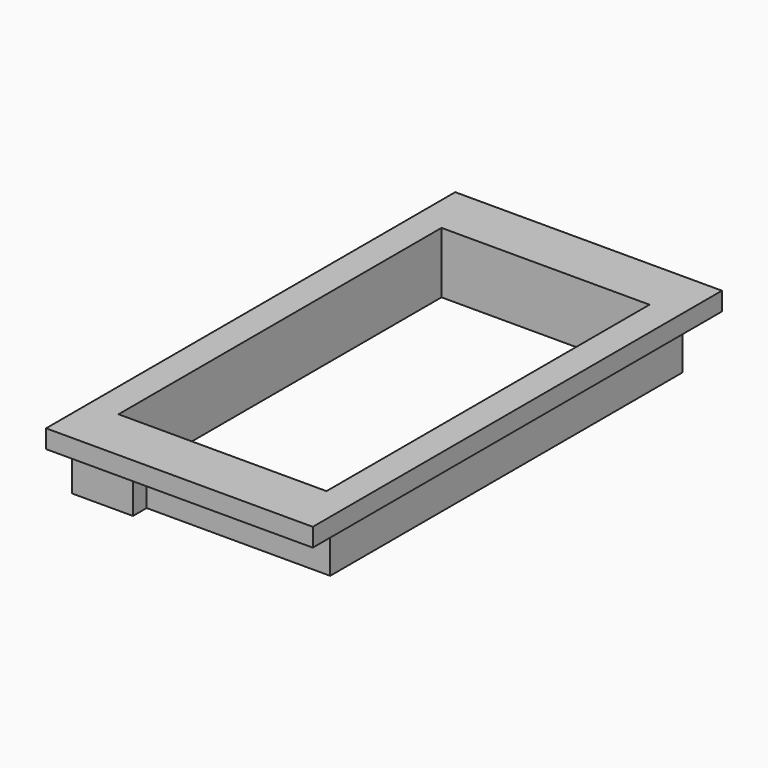
from build123d import *

# Parameters (mm, degrees)
BOX003_W                  = 5
BOX003_H                  = 2
BOX003_DEPTH              = 5
BOX005_W                  = 5
BOX005_H                  = 2
BOX005_DEPTH              = 5
BOX002_W                  = 17
BOX002_H                  = 33
BOX002_DEPTH              = 5
BOX001_W                  = 20
BOX001_H                  = 36
BOX001_DEPTH              = 5
BOX_W                     = 21.8
BOX_H                     = 41.8
BOX_DEPTH                 = 1.5
FUSION004_PLACEMENT_ANGLE = 180


with BuildPart() as cube001:
    # Box003 → Box003 (new body)
    with BuildSketch(Plane(origin=(-10, 17.4, 0), x_dir=(1, 0, 0), z_dir=(0, 0, 1))):
        with Locations((2.5, 1)):
            Rectangle(BOX003_W, BOX003_H)
    extrude(amount=BOX003_DEPTH)


with BuildPart() as fusion003:
    # Box005 → Box005 (new body)
    with BuildSketch(Plane(origin=(-10, -19.4, 0), x_dir=(1, 0, 0), z_dir=(0, 0, 1))):
        with Locations((2.5, 1)):
            Rectangle(BOX005_W, BOX005_H)
    extrude(amount=BOX005_DEPTH)

    # Fusion003: union Cube001
    add(cube001.part)


with BuildPart() as fusion003_1:
    # Fusion003 placement: moved
    add(fusion003.part.moved(Location((15, 0, 0))))


with BuildPart() as cut:
    # Box002 → Box002 (new body)
    with BuildSketch(Plane(origin=(-8.5, -16.5, 0), x_dir=(1, 0, 0), z_dir=(0, 0, 1))):
        with Locations((8.5, 16.5)):
            Rectangle(BOX002_W, BOX002_H)
    extrude(amount=BOX002_DEPTH)


with BuildPart() as cube:
    # Box001 → Box001 (new body)
    with BuildSketch(Plane(origin=(-10, -18, 0), x_dir=(1, 0, 0), z_dir=(0, 0, 1))):
        with Locations((10, 18)):
            Rectangle(BOX001_W, BOX001_H)
    extrude(amount=BOX001_DEPTH)


with BuildPart() as basesensoruppermount:
    # Box → Box (new body)
    with BuildSketch(Plane(origin=(-10.9, -20.9, 0), x_dir=(1, 0, 0), z_dir=(0, 0, 1))):
        with Locations((10.9, 20.9)):
            Rectangle(BOX_W, BOX_H)
    extrude(amount=BOX_DEPTH)

    # Fusion: union Cube
    add(cube.part)

    # Cut: cut cut
    add(cut.part, mode=Mode.SUBTRACT)

    # Fusion004: union Fusion003
    add(fusion003_1.part)


with BuildPart() as basesensoruppermount_1:
    # Fusion004 placement: moved
    add(basesensoruppermount.part.moved(Location((0, 0, 1.5))).rotate(Axis((0, 0, 1.5), (0, 1, 0)), FUSION004_PLACEMENT_ANGLE))


solid = basesensoruppermount_1.part
